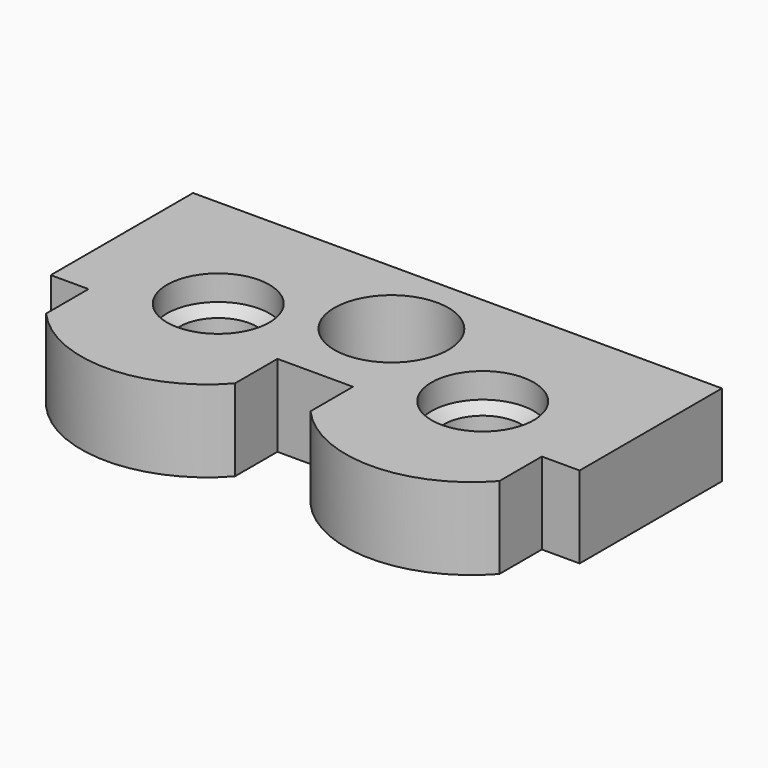
from build123d import *

# Parameters (mm, degrees)
F0_W           = 21
F0_H           = 5
F0_H_2         = 16.25
F1_DEPTH       = 13
F2_D           = 12.25
F2_CBORE_D     = 16.25
F2_CBORE_DEPTH = 3.1
F4_D           = 16.25
F4_DEPTH       = 4
F4_TIP         = 4.8819925296
F5_D           = 18.1


with BuildPart() as f1:
    # F0 (on Top) → F1 (new body)
    with BuildSketch(Plane.XY):
        with Locations((-10.5, -2.5)):
            Rectangle(F0_W, F0_H)
        with Locations((10.5, -2.5)):
            Rectangle(F0_W, F0_H)
        Polygon((-21, -5), (-21, 0), (-26, 0), (-42, 0), (-42, -5), align=None)
        Polygon((26, 0), (21, 0), (21, -5), (42, -5), (42, 0), align=None)
        with Locations((-31.5, -13.125)):
            Rectangle(F0_W, F0_H_2)
        with Locations((31.5, -13.125)):
            Rectangle(F0_W, F0_H_2)
        Polygon((0, -28.25), (0, -21.25), (-21, -21.25), (-21, -28.25), (-6, -28.25), align=None)
        Polygon((21, -21.25), (0, -21.25), (0, -28.25), (6, -28.25), (21, -28.25), align=None)
        Polygon((-21, -28.25), (-21, -21.25), (-42, -21.25), (-42, -28.25), (-36, -28.25), align=None)
        Polygon((42, -21.25), (21, -21.25), (21, -28.25), (36, -28.25), (42, -28.25), align=None)
        with BuildLine():
            Line((-6, -28.25), (-21, -28.25))
            Line((-21, -28.25), (-36, -28.25))
            Line((-36, -28.25), (-36, -36.6772486205))
            ThreePointArc((-36, -36.6772486205), (-21, -43.4484920652), (-6, -36.6772486205))
            Line((-6, -36.6772486205), (-6, -28.25))
        make_face()
        with BuildLine():
            Line((36, -28.25), (21, -28.25))
            Line((21, -28.25), (6, -28.25))
            Line((6, -28.25), (6, -36.6772486205))
            ThreePointArc((6, -36.6772486205), (21, -43.4484920652), (36, -36.6772486205))
            Line((36, -36.6772486205), (36, -28.25))
        make_face()
        with Locations((10.5, -13.125)):
            Rectangle(F0_W, F0_H_2)
        with Locations((-10.5, -13.125)):
            Rectangle(F0_W, F0_H_2)
    extrude(amount=F1_DEPTH)

    # F2 (through all)
    with Locations(Plane(origin=(0, 0, 0), x_dir=(1, 0, 0), z_dir=(0, 0, -1))):
        with Locations((21, 21.25), (-21, 21.25)):
            CounterBoreHole(F2_D / 2, F2_CBORE_D / 2, F2_CBORE_DEPTH)

    # F4
    with Locations(Plane.XY.offset(13)):
        with Locations((-21, -21.25), (21, -21.25)):
            Hole(F4_D / 2, depth=F4_DEPTH)
            with Locations((0, 0, -(F4_DEPTH + F4_TIP / 2))):  # 118° drill point
                Cone(0, F4_D / 2, F4_TIP, mode=Mode.SUBTRACT)

    # F5 (through all)
    with Locations(Plane(origin=(0, 0, 0), x_dir=(1, 0, 0), z_dir=(0, 0, -1))):
        with Locations((0, 13.125)):
            Hole(F5_D / 2)


solid = f1.part
